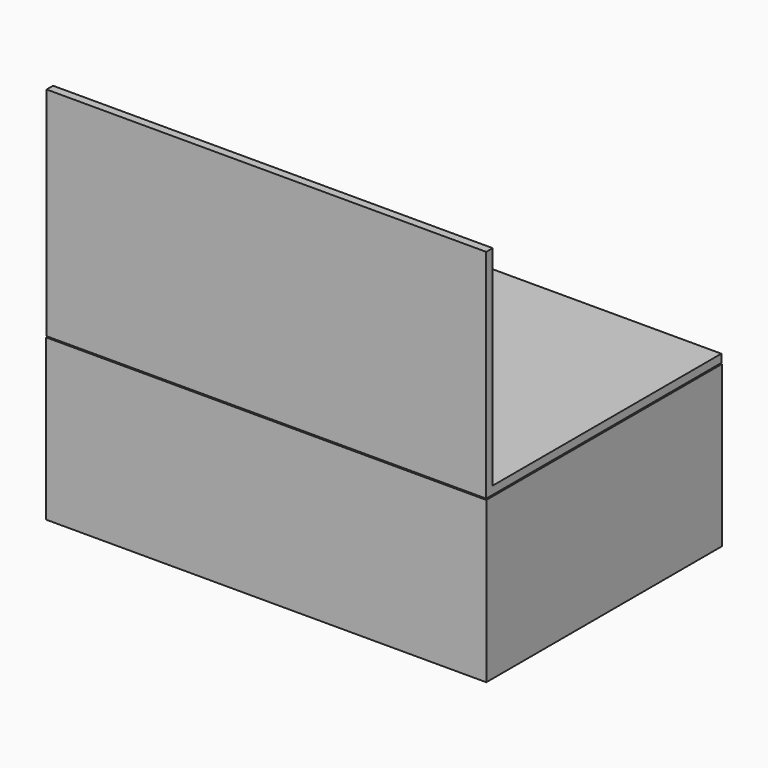
from build123d import *

# Parameters (mm, degrees)
F0_W     = 137.9779204726
F0_H     = 92.2998674214
F1_DEPTH = 3.302
F2_DEPTH = 46.99
F3_T     = -2.54
F5_W     = 137.7891749144
F5_H     = 92.1111144125
F6_DEPTH = 68.072
F7_T     = -2.54


with BuildPart() as f1:
    # F0 (on Top) → F1 (new body)
    with BuildSketch(Plane.XY):
        with Locations((-0.5138330162, 6.0276221484)):
            Rectangle(F0_W, F0_H)
    extrude(amount=F1_DEPTH)

    # F2 (add): a face of the model
    f2_faces = [f1.faces().sort_by_distance(p)[0] for p in [
        (-0.5138330162, 6.0276221484, 3.302),
    ]]
    extrude(f2_faces, amount=F2_DEPTH)

    # F3
    f3_openings = [f1.faces().sort_by_distance(p)[0] for p in [
        (-0.513833, 6.027622, 50.292),
    ]]
    offset(amount=F3_T, openings=f3_openings)


with BuildPart() as f6:
    # F5 (on offset) → F6 (new body)
    with BuildSketch(Plane.XY.offset(50.546)):
        with Locations((-0.6082057953, 6.1219986528)):
            Rectangle(F5_W, F5_H)
    extrude(amount=F6_DEPTH)

    # F7
    f7_openings = [f6.faces().sort_by_distance(p)[0] for p in [
        (-69.502793, 6.121999, 84.582),
        (-0.608206, 6.121999, 118.618),
        (68.286382, 6.121999, 84.582),
        (-0.608206, 52.177556, 84.582),
    ]]
    offset(amount=F7_T, openings=f7_openings)


solid = Compound([f1.part, f6.part])
